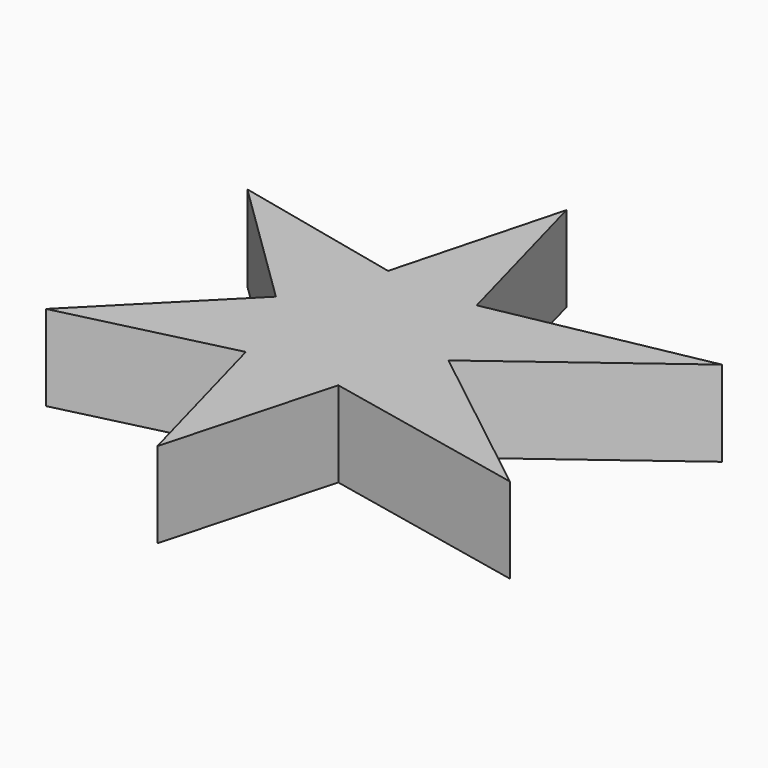
from build123d import *

# Parameters (mm, degrees)
PAD_DEPTH = 20


with BuildPart() as part:
    # Sketch → Pad (new body)
    with BuildSketch(Plane.XY):
        Polygon((0, 59.824661), (10.739893, 20.22135), (60.326782, 29.877739), (20.315401, 0), (58.955444, -30.374825), (10.739893, -20.231117), (0, -59.670383), (-10.660765, -20.4921), (-49.746494, -29.989355), (-20.025267, 0), (-50.591267, 29.877739), (-10.399783, 20.743315), align=None)
    extrude(amount=PAD_DEPTH)


solid = part.part
